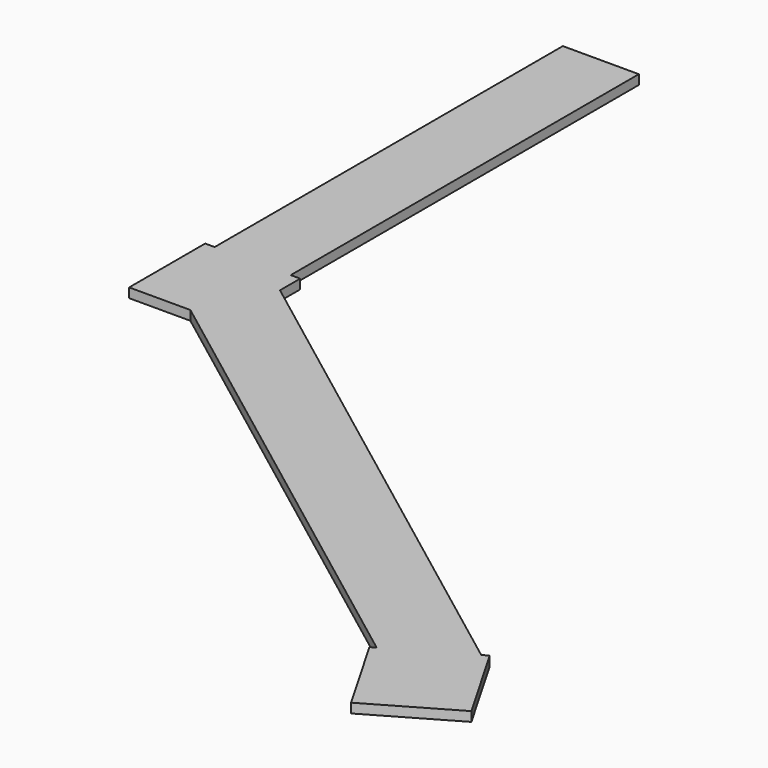
from build123d import *

# Parameters (mm, degrees)
F0_W     = 101.6
F0_H     = 581.585099
F1_DEPTH = 12.7


with BuildPart() as f1:
    # F0 (on Top) → F1 (new body)
    with BuildSketch(Plane.XY):
        with Locations((-236.551933, 473.884111)):
            Rectangle(F0_W, F0_H)
        Polygon((-185.751933, 183.091562), (-287.351933, 183.091562), (-300.051933, 183.091562), (-300.051933, 56.091562), (-218.208847, 56.091562), (410.263863, -418.272025), (505.818866, -363.103319), (-173.051933, 149.300135), (-173.051933, 183.091562), align=None)
        Polygon((513.583823, -358.620219), (505.818866, -363.103319), (410.263863, -418.272025), (403.598596, -422.120219), (467.098596, -532.105445), (577.083823, -468.605445), align=None)
    extrude(amount=F1_DEPTH)


solid = f1.part
